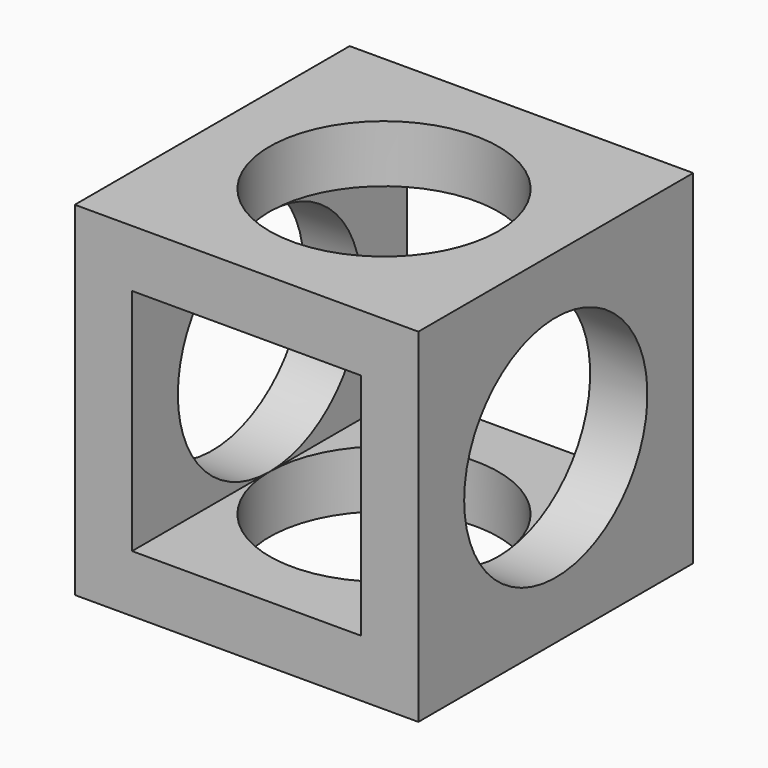
from build123d import *

# Parameters (mm, degrees)
F0_W      = 30
F0_H      = 30
F1_DEPTH  = 15
F1_FACE_W = 30
F1_FACE_H = 30
F2_DEPTH  = 15
F3_W      = 20
F3_H      = 20
F4_DEPTH  = 30.001
F5_R      = 10
F6_DEPTH  = 30.001
F7_R      = 10
F8_DEPTH  = 30.001


with BuildPart() as f1:
    # F0 (on Front) → F1 (new body)
    with BuildSketch(Plane.XZ):
        Rectangle(F0_W, F0_H)
    extrude(amount=F1_DEPTH)

    # F1_face (on face) → F2 (join)
    with BuildSketch(Plane(origin=(0, 0, 0), x_dir=(1, 0, 0), z_dir=(0, 1, 0))):
        Rectangle(F1_FACE_W, F1_FACE_H)
    extrude(amount=F2_DEPTH)

    # F3 (on face) → F4 (cut, through all)
    with BuildSketch(Plane.XZ.offset(15)):
        Rectangle(F3_W, F3_H)
    extrude(amount=-F4_DEPTH, mode=Mode.SUBTRACT)

    # F5 (on face) → F6 (cut, through all)
    with BuildSketch(Plane.XY.offset(15)):
        Circle(F5_R)
    extrude(amount=-F6_DEPTH, mode=Mode.SUBTRACT)

    # F7 (on face) → F8 (cut, through all)
    with BuildSketch(Plane(origin=(-15, 0, 0), x_dir=(0, -1, 0), z_dir=(-1, 0, 0))):
        Circle(F7_R)
    extrude(amount=-F8_DEPTH, mode=Mode.SUBTRACT)


solid = f1.part
